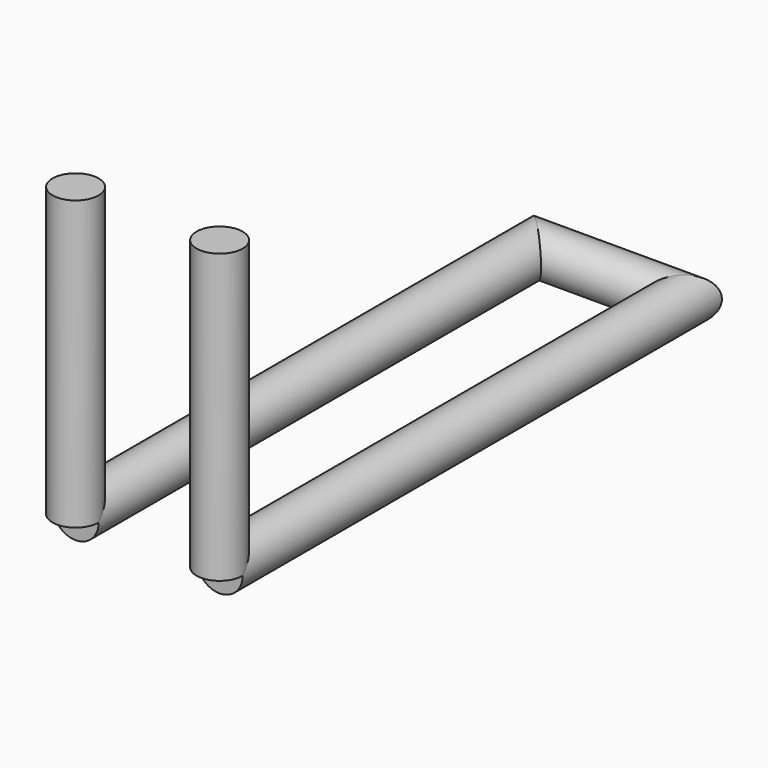
from build123d import *

# Parameters (mm, degrees)
F1_R     = 8
F3_DEPTH = 100
F2_R     = 8


with BuildPart() as f3:
    # F1 (on Top) → F3 (new body)
    with BuildSketch(Plane.XY):
        with Locations((-25, 0)):
            Circle(F1_R)
    extrude(amount=F3_DEPTH)



with BuildPart() as f3b:
    # F1 (on Top) → F3, piece 2 (new body)
    with BuildSketch(Plane.XY):
        with Locations((25, 0)):
            Circle(F1_R)
    extrude(amount=F3_DEPTH)


with BuildPart() as f3_1:
    add(f3.part)

    add(f3b.part)  # F4 merges F3b
    # F4: sweep along a path in F0
    with BuildLine(Plane.XY) as f4_path:
        Line((-25, 0), (-25, 200))
        Line((-25, 200), (0, 200))
        Line((0, 200), (25, 200))
        Line((25, 200), (25, 0))
    # F2 (on Front) → F4 (sweep)
    with BuildSketch(Plane.XZ):
        with Locations((-25, 0)):
            Circle(F2_R)
    sweep(path=f4_path.line, transition=Transition.RIGHT)


solid = f3_1.part
